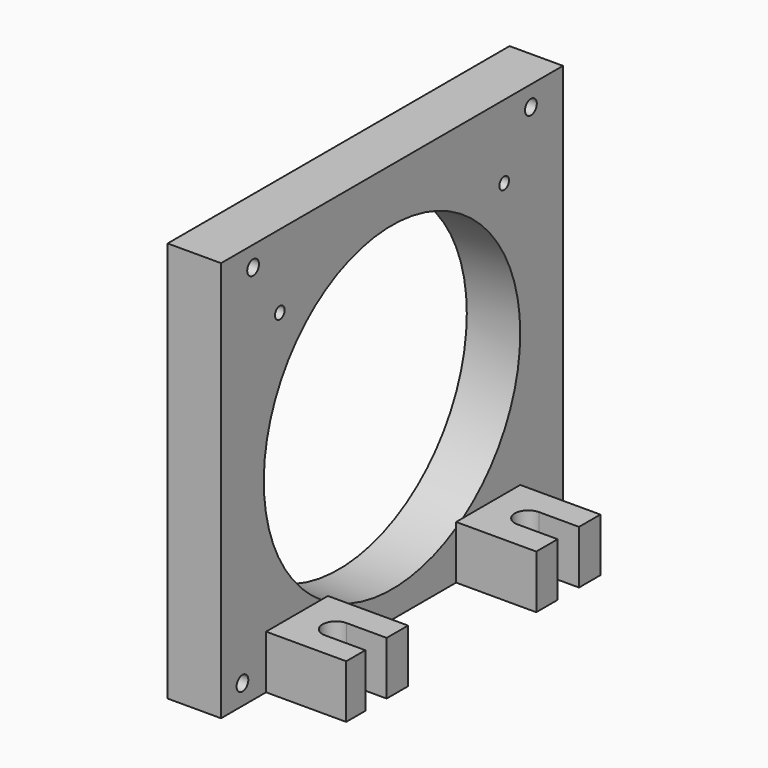
from build123d import *

# Parameters (mm, degrees)
SKETCH002_W     = 160
SKETCH002_H     = 150
SKETCH002_R     = 60
PAD002_DEPTH    = 20
SKETCH005_R     = 2.25
HOLE002_DEPTH   = 25
SKETCH017_W     = 30
SKETCH017_H     = 30
SKETCH017_H_2   = 28.930618
PAD006_DEPTH    = 20
POCKET003_DEPTH = 50
SKETCH020_R     = 2.75
HOLE008_DEPTH   = 25
HOLE008_TIPS_R  = 2.75


with BuildPart() as part:
    # Sketch002 → Pad002 (new body)
    with BuildSketch(Plane.YZ.offset(500)):
        with Locations((-85, -10)):
            Rectangle(SKETCH002_W, SKETCH002_H)
        with Locations((-85, -15)):
            Circle(SKETCH002_R, mode=Mode.SUBTRACT)
    extrude(amount=PAD002_DEPTH)

    # Sketch005 → Hole002 (cut)
    with BuildSketch(Plane.YZ.offset(500)):
        with Locations((-137.5, 37.5)):
            Circle(SKETCH005_R)
        with Locations((-32.5, 37.5)):
            Circle(SKETCH005_R)
        with Locations((-32.5, -67.5)):
            Circle(SKETCH005_R)
        with Locations((-137.5, -67.5)):
            Circle(SKETCH005_R)
    extrude(amount=HOLE002_DEPTH, mode=Mode.SUBTRACT)

    # Sketch017 → Pad006 (join)
    with BuildSketch(Plane.XY.offset(-85)):
        with Locations((535, -40)):
            Rectangle(SKETCH017_W, SKETCH017_H)
        with Locations((535, -129.465309)):
            Rectangle(SKETCH017_W, SKETCH017_H_2)
    extrude(amount=PAD006_DEPTH)

    # Sketch018 → Pocket003 (cut)
    with BuildSketch(Plane.XY.offset(-85)):
        with BuildLine():
            ThreePointArc((535.000004, -35), (530.000002, -39.999999), (535.000002, -45))
            Line((535.000002, -45), (560, -45))
            ThreePointArc((560, -45), (565, -39.999999), (559.999998, -35))
            Line((535.000002, -35), (560, -35))
        make_face()
        with BuildLine():
            ThreePointArc((535.000002, -125), (530, -129.999999), (535, -135))
            Line((535, -135), (560, -135))
            ThreePointArc((560, -135), (565, -129.999999), (559.999998, -125))
            Line((535, -125), (560, -125))
        make_face()
    extrude(amount=POCKET003_DEPTH, mode=Mode.SUBTRACT)

    # Sketch020 → Hole008 (cut)
    with BuildSketch(Plane.YZ.offset(500)):
        with Locations((-155, -77.5)):
            Circle(SKETCH020_R)
        with Locations((-15, -77.5)):
            Circle(SKETCH020_R)
        with Locations((-150, 57.5)):
            Circle(SKETCH020_R)
        with Locations((-20, 57.5)):
            Circle(SKETCH020_R)
    extrude(amount=HOLE008_DEPTH, mode=Mode.SUBTRACT)

    # Hole008 tips → Hole008 tip 1 section 0
    with BuildSketch(Plane.YZ.offset(525), mode=Mode.PRIVATE) as hole008_tip_1_s0:
        with Locations((-155, -77.5)):
            Circle(HOLE008_TIPS_R)
    loft([hole008_tip_1_s0.sketch, Vertex(526.652367, -155, -77.5)], mode=Mode.SUBTRACT)

    # Hole008 tips → Hole008 tip 2 section 0
    with BuildSketch(Plane.YZ.offset(525), mode=Mode.PRIVATE) as hole008_tip_2_s0:
        with Locations((-15, -77.5)):
            Circle(HOLE008_TIPS_R)
    loft([hole008_tip_2_s0.sketch, Vertex(526.652367, -15, -77.5)], mode=Mode.SUBTRACT)

    # Hole008 tips → Hole008 tip 3 section 0
    with BuildSketch(Plane.YZ.offset(525), mode=Mode.PRIVATE) as hole008_tip_3_s0:
        with Locations((-150, 57.5)):
            Circle(HOLE008_TIPS_R)
    loft([hole008_tip_3_s0.sketch, Vertex(526.652367, -150, 57.5)], mode=Mode.SUBTRACT)

    # Hole008 tips → Hole008 tip 4 section 0
    with BuildSketch(Plane.YZ.offset(525), mode=Mode.PRIVATE) as hole008_tip_4_s0:
        with Locations((-20, 57.5)):
            Circle(HOLE008_TIPS_R)
    loft([hole008_tip_4_s0.sketch, Vertex(526.652367, -20, 57.5)], mode=Mode.SUBTRACT)


solid = part.part
